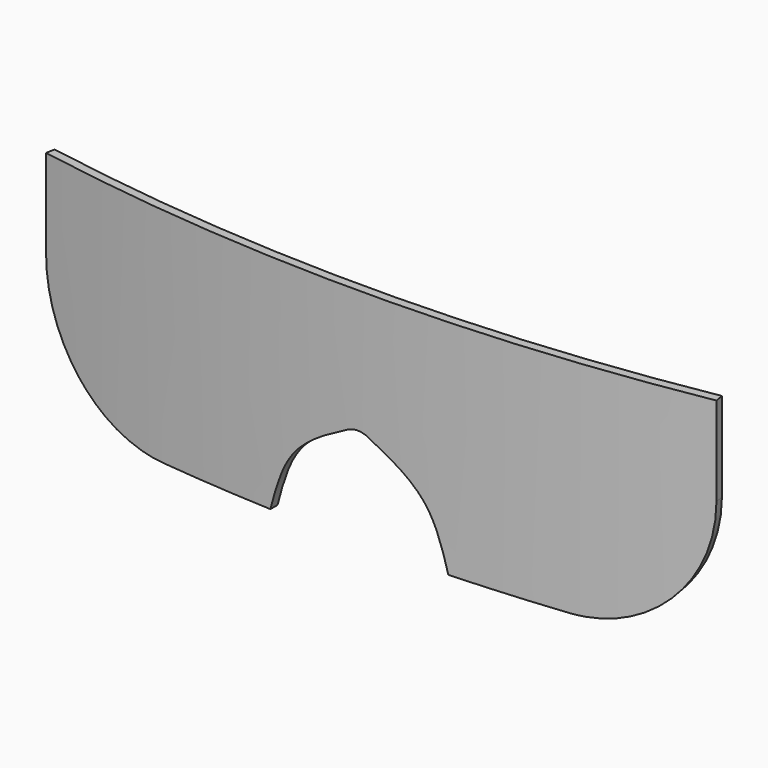
from build123d import *

# Parameters (mm, degrees)
F1_DEPTH = 50
F2_R     = 30
F4_DEPTH = 9.585521368
F5_R     = 5


with BuildPart() as f1:
    # F0 (on Top) → F1 (new body)
    with BuildSketch(Plane.XY):
        with BuildLine():
            ThreePointArc((75, 0), (0, -6.585521268), (-75, 0))
            Line((-75, 0), (-75.3485405324, -1.9693957188))
            ThreePointArc((-75.3485405324, -1.9693957188), (0, -8.585521268), (75.3485405324, -1.9693957188))
            Line((75.3485405324, -1.9693957188), (75, 0))
        make_face()
    extrude(amount=F1_DEPTH)

    # F2
    f2_edges = [f1.edges().sort_by_distance(p)[0] for p in [
        (75.17427, -0.984698, 0),
        (-75.17427, -0.984698, 0),
    ]]
    fillet(f2_edges, radius=F2_R)

    # F3 (on Front) → F4 (cut, up to face)
    with BuildSketch(Plane.XZ):
        with BuildLine():
            Line((-20, 0), (0, 0))
            Line((0, 0), (20, 0))
            add(Edge.make_bspline(
                [(20, 0), (18.7029346188, 4.7944349411), (15.9903043356, 14.8213230228), (5.4831015914, 20.0955088265), (0, 22.8478014469)],
                knots=[0, 0, 0, 0, 0.4781578195, 1, 1, 1, 1], degree=3))
            add(Edge.make_bspline(
                [(-20, 0), (-18.7029346188, 4.7944349411), (-15.9903043356, 14.8213230228), (-5.4831015914, 20.0955088265), (0, 22.8478014469)],
                knots=[0, 0, 0, 0, 0.4781578195, 1, 1, 1, 1], degree=3))
        make_face()
    extrude(amount=F4_DEPTH, mode=Mode.SUBTRACT)

    # F5
    f5_edges = [f1.edges().sort_by_distance(p)[0] for p in [
        (0, -7.585521, 22.847801),
    ]]
    fillet(f5_edges, radius=F5_R)


solid = f1.part
